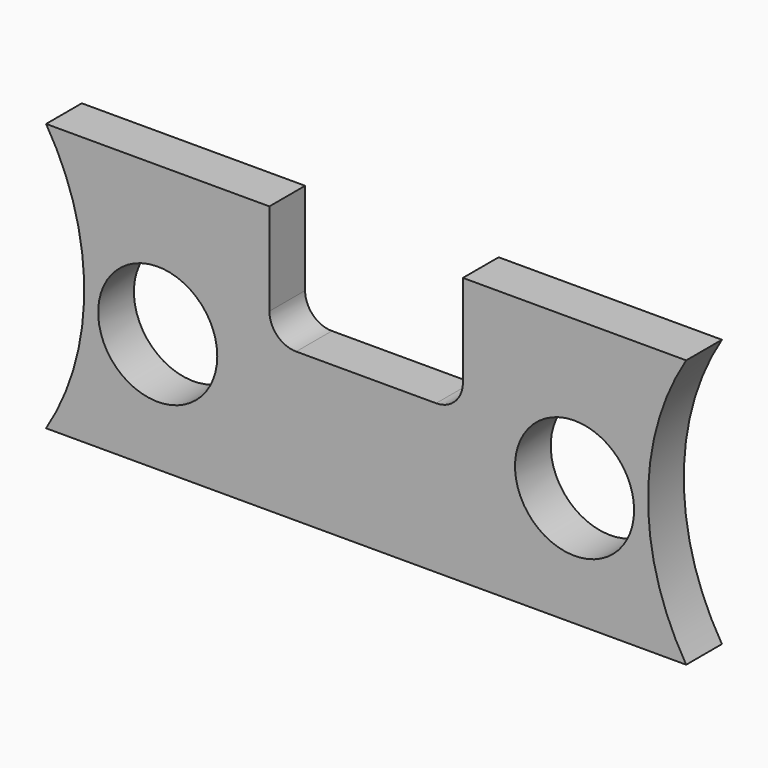
from build123d import *

# Parameters (mm, degrees)
F0_W     = 273.05
F0_H     = 114.3
F1_DEPTH = 19.05
F2_R     = 25.4
F3_DEPTH = 25.4
F5_DEPTH = 25.4
F7_DEPTH = 25.4


with BuildPart() as f1:
    # F0 (on Front) → F1 (new body)
    with BuildSketch(Plane.XZ):
        with Locations((136.525, 57.15)):
            Rectangle(F0_W, F0_H)
    extrude(amount=F1_DEPTH)

    # F2 (on face) → F3 (cut)
    with BuildSketch(Plane.XZ.offset(19.05)):
        with Locations((47.625, 50.8)):
            Circle(F2_R)
        with Locations((225.425, 50.8)):
            Circle(F2_R)
    extrude(amount=-F3_DEPTH, mode=Mode.SUBTRACT)

    # F4 (on face) → F5 (cut)
    with BuildSketch(Plane.XZ.offset(19.05)):
        with BuildLine():
            Line((177.8, 114.3), (95.25, 114.3))
            Line((95.25, 114.3), (95.25, 74.93))
            ThreePointArc((95.25, 74.93), (98.597769, 66.847769), (106.68, 63.5))
            Line((106.68, 63.5), (166.37, 63.5))
            ThreePointArc((166.37, 63.5), (174.452231, 66.847769), (177.8, 74.93))
            Line((177.8, 74.93), (177.8, 114.3))
        make_face()
    extrude(amount=-F5_DEPTH, mode=Mode.SUBTRACT)

    # F6 (on face) → F7 (cut)
    with BuildSketch(Plane.XZ.offset(19.05)):
        with BuildLine():
            Line((0, 114.3), (0, 0))
            ThreePointArc((0, 0), (16.273098, 57.15), (0, 114.3))
        make_face()
        with BuildLine():
            ThreePointArc((273.05, 114.3), (256.776902, 57.15), (273.05, 0))
            Line((273.05, 0), (273.05, 114.3))
        make_face()
    extrude(amount=-F7_DEPTH, mode=Mode.SUBTRACT)


solid = f1.part
